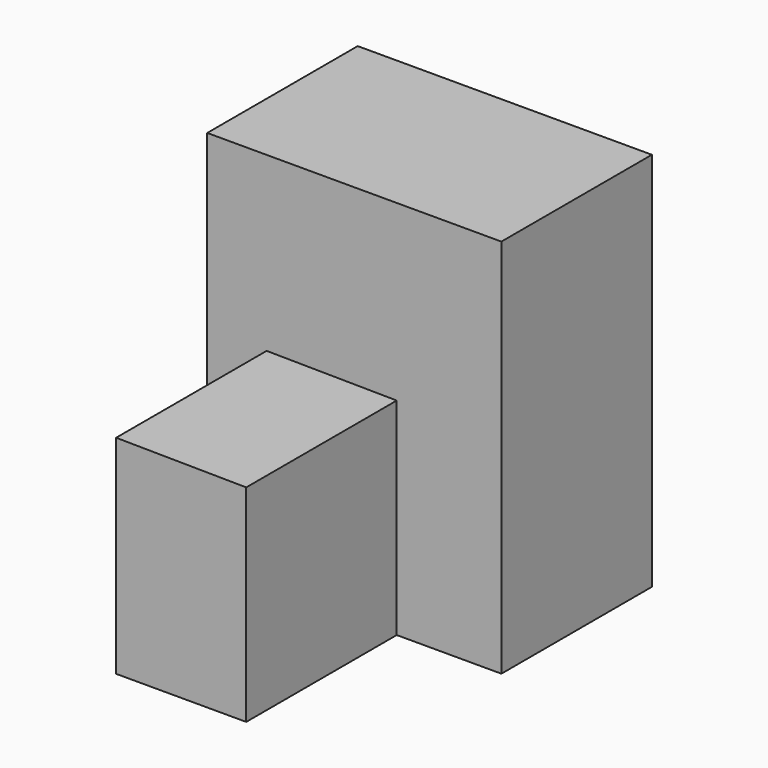
from build123d import *

# Parameters (mm, degrees)
F0_W     = 39.718569
F0_H     = 51.366802
F1_DEPTH = 25.4
F3_DEPTH = 25.4


with BuildPart() as f1:
    # F0 (on Front) → F1 (new body)
    with BuildSketch(Plane.XZ):
        with Locations((-31.316563, 25.683401)):
            Rectangle(F0_W, F0_H)
    extrude(amount=F1_DEPTH)

    # F2 (on face) → F3 (join)
    with BuildSketch(Plane.XZ.offset(25.4)):
        Polygon((-25.587924, 27.87938), (-43.155752, 28.070334), (-43.155752, 0), (-25.587924, 0), align=None)
    extrude(amount=F3_DEPTH)


solid = f1.part
